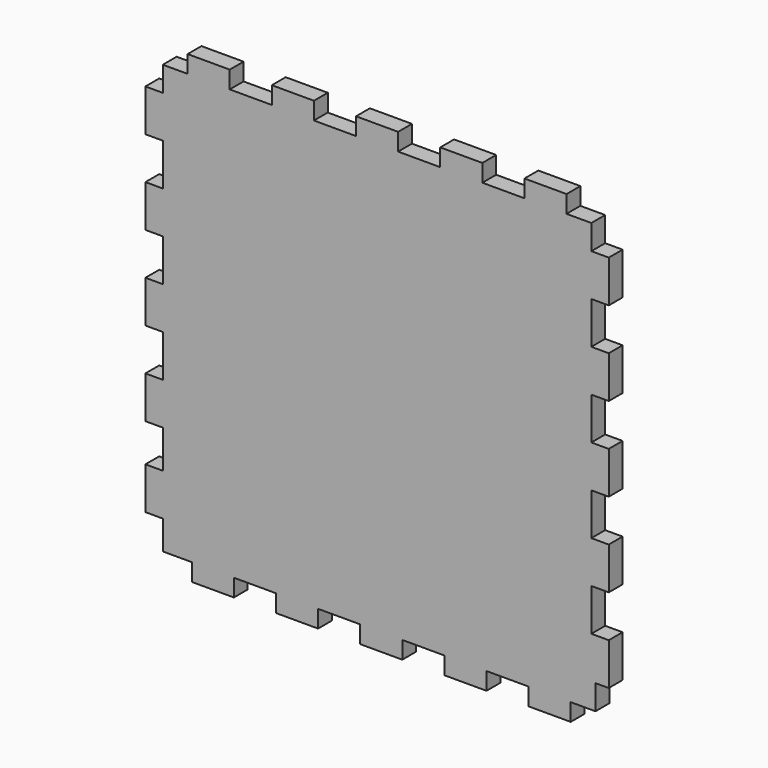
from build123d import *

# Parameters (mm, degrees)
F1_DEPTH = 3.81


with BuildPart() as f1:
    # F0 (on Front) → F1 (new body)
    with BuildSketch(Plane.XZ):
        Polygon((-47.593347, 14.7066), (-47.593347, 5.4356), (-51.428747, 5.4356), (-51.428747, -3.8354), (-47.593347, -3.8354), (-47.593347, -13.1064), (-51.428747, -13.1064), (-51.428747, -22.3774), (-47.593347, -22.3774), (-47.593347, -30.734), (-51.428747, -30.734), (-51.428747, -40.005), (-47.593347, -40.005), (-47.593347, -46.3804), (-41.217947, -46.3804), (-41.217947, -50.2158), (-31.946947, -50.2158), (-31.946947, -46.3804), (-22.675947, -46.3804), (-22.675947, -50.2158), (-13.404947, -50.2158), (-13.404947, -46.3804), (-4.133947, -46.3804), (-4.133947, -50.2158), (5.137053, -50.2158), (5.137053, -46.3804), (14.408053, -46.3804), (14.408053, -50.2158), (23.679053, -50.2158), (23.679053, -46.3804), (32.950053, -46.3804), (32.950053, -50.2158), (42.221053, -50.2158), (42.221053, -46.3804), (47.682053, -46.3804), (47.682053, -40.9194), (50.603053, -40.9194), (50.603053, -31.6484), (46.767653, -31.6484), (46.767653, -22.3774), (50.603053, -22.3774), (50.603053, -13.1064), (46.767653, -13.1064), (46.767653, -3.8354), (50.603053, -3.8354), (50.603053, 5.4356), (46.767653, 5.4356), (46.767653, 14.7066), (50.603053, 14.7066), (50.603053, 23.9776), (46.767653, 23.9776), (46.767653, 33.2486), (50.603053, 33.2486), (50.603053, 42.5196), (46.767653, 42.5196), (46.767653, 47.9806), (41.306653, 47.9806), (41.306653, 51.816), (32.035653, 51.816), (32.035653, 47.9806), (22.764653, 47.9806), (22.764653, 51.816), (13.493653, 51.816), (13.493653, 47.9806), (4.222653, 47.9806), (4.222653, 51.816), (-5.048347, 51.816), (-5.048347, 47.9806), (-14.319347, 47.9806), (-14.319347, 51.816), (-23.590347, 51.816), (-23.590347, 47.9806), (-32.861347, 47.9806), (-32.861347, 51.816), (-42.132347, 51.816), (-42.132347, 47.9806), (-47.593347, 47.9806), (-47.593347, 42.5196), (-51.428747, 42.5196), (-51.428747, 33.2486), (-47.593347, 33.2486), (-47.593347, 23.9776), (-51.428747, 23.9776), (-51.428747, 14.7066), align=None)
    extrude(amount=F1_DEPTH)


solid = f1.part
